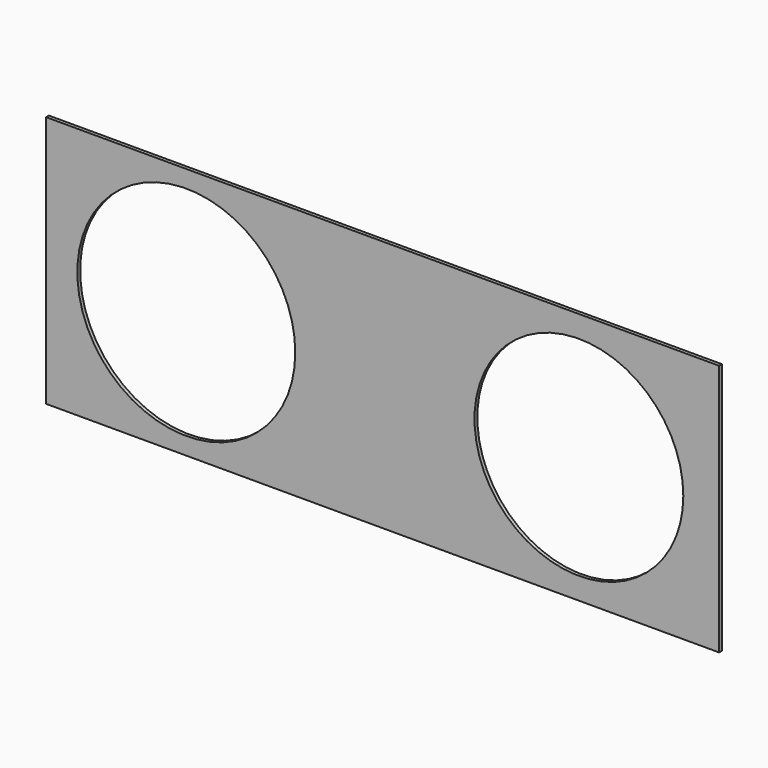
from build123d import *

# Parameters (mm, degrees)
F1_DEPTH = 1.5875


with BuildPart() as f1:
    # F0 (on Front) → F1 (new body)
    with BuildSketch(Plane.XZ):
        with BuildLine():
            Line((152.4, 0), (152.4, 57.15))
            Line((152.4, 57.15), (-152.4, 57.15))
            Line((-152.4, 57.15), (-152.4, 0))
            Line((-152.4, 0), (-138.24453, 0))
            ThreePointArc((-138.24453, 0), (-88.9, 49.34453), (-39.55547, 0))
            Line((-39.55547, 0), (41.616661, 0))
            ThreePointArc((41.616661, 0), (88.9, 47.283339), (136.183339, 0))
            Line((136.183339, 0), (152.4, 0))
        make_face()
        with BuildLine():
            Line((152.4, -57.15), (152.4, 0))
            Line((152.4, 0), (136.183339, 0))
            ThreePointArc((136.183339, 0), (88.9, -47.283339), (41.616661, 0))
            Line((41.616661, 0), (-39.55547, 0))
            ThreePointArc((-39.55547, 0), (-88.9, -49.34453), (-138.24453, 0))
            Line((-138.24453, 0), (-152.4, 0))
            Line((-152.4, 0), (-152.4, -57.15))
            Line((-152.4, -57.15), (152.4, -57.15))
        make_face()
    extrude(amount=F1_DEPTH)


solid = f1.part
